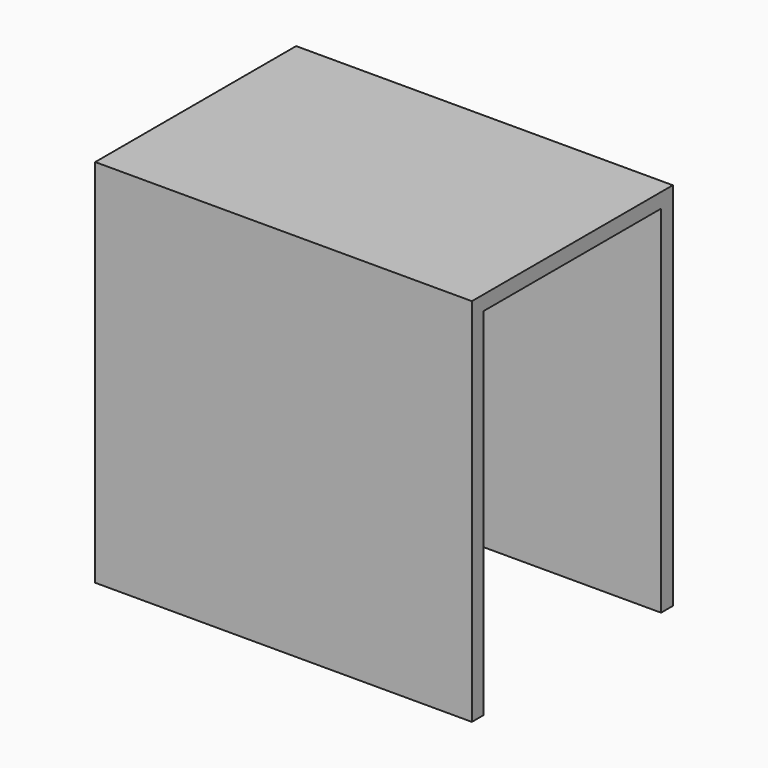
from build123d import *

# Parameters (mm, degrees)
F0_W     = 180
F0_H     = 120
F1_DEPTH = 7
F2_W     = 180
F2_H     = 7
F3_DEPTH = 170
F4_W     = 180
F4_H     = 7
F5_DEPTH = 170


with BuildPart() as f1:
    # F0 (on Top) → F1 (new body)
    with BuildSketch(Plane.XY):
        with Locations((31.490099, 13.798424)):
            Rectangle(F0_W, F0_H)
    extrude(amount=F1_DEPTH)

    # F2 (on face) → F3 (join)
    with BuildSketch(Plane(origin=(0, 0, 0), x_dir=(1, 0, 0), z_dir=(0, 0, -1))):
        with Locations((31.490099, -70.298424)):
            Rectangle(F2_W, F2_H)
    extrude(amount=F3_DEPTH)

    # F4 (on face) → F5 (join)
    with BuildSketch(Plane(origin=(0, 0, 0), x_dir=(1, 0, 0), z_dir=(0, 0, -1))):
        with Locations((31.490099, 42.701576)):
            Rectangle(F4_W, F4_H)
    extrude(amount=F5_DEPTH)


solid = f1.part
